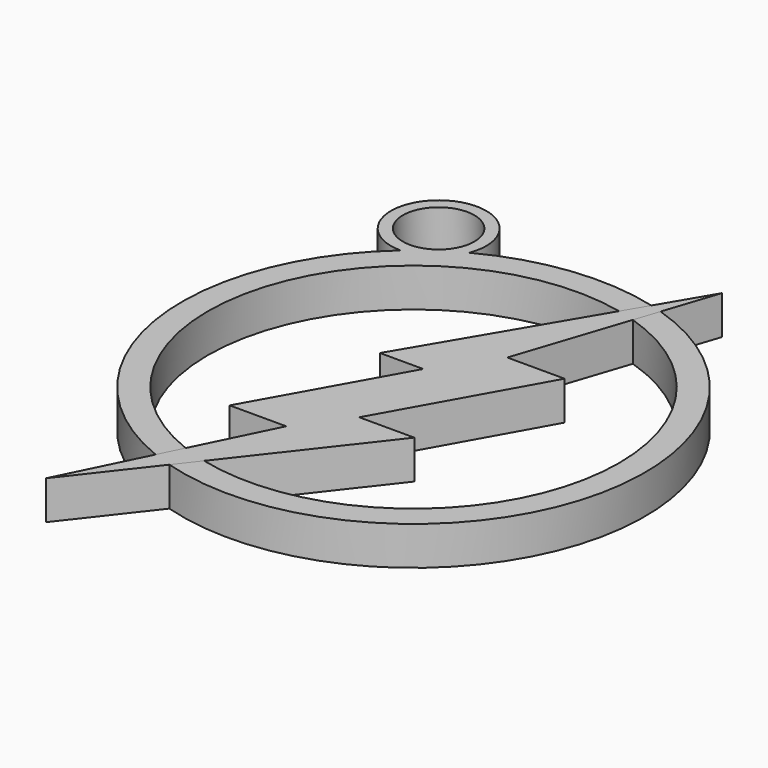
from build123d import *

# Parameters (mm, degrees)
F1_DEPTH = 6.35
F3_DEPTH = 6.35
F4_R     = 7.8194869238
F4_R_2   = 5.8680689484
F5_DEPTH = 6.35


with BuildPart() as f1:
    # F0 (on Top) → F1 (new body)
    with BuildSketch(Plane.XY):
        Polygon((10.2044390514, 20.2409497), (20.5251984298, 51.3899475336), (-3.3272264991, 11.0243037343), (3.7826313637, 11.0243037343), (-9.2903310433, -12.3694203794), (0, -12.3694203794), (-15.0240883231, -42.8730025887), (14.7914448753, -4.5715132728), (5.745598625, -4.5715132728), (19.6113856238, 20.2409497), align=None)
    extrude(amount=F1_DEPTH)


with BuildPart() as f3:
    # F2 (on face) → F3 (new body)
    with BuildSketch(Plane.XY.offset(6.35)):
        with BuildLine():
            ThreePointArc((-6.2910568685, -25.142226705), (-26.3355362631, 16.1610780131), (13.3489113778, 39.2454612683))
            Line((13.3489113778, 39.2454612683), (15.6022474373, 43.0587993675))
            ThreePointArc((15.6022474373, 43.0587993675), (-30.1282761074, 18.2224985015), (-8.1703070611, -28.9576903466))
            Line((-8.1703070611, -28.9576903466), (-6.2910568685, -25.142226705))
        make_face()
    extrude(amount=-F3_DEPTH)

    # F4 (on face) → F5 (join)
    with BuildSketch(Plane.XY.offset(6.35)):
        with Locations((-19.0615635365, 42.7367538214)):
            Circle(F4_R)
        with Locations((-19.0615635365, 42.7367538214)):
            Circle(F4_R_2, mode=Mode.SUBTRACT)
    extrude(amount=-F5_DEPTH)


with BuildPart() as f3b:
    # F2 (on face) → F3, piece 2 (new body)
    with BuildSketch(Plane.XY.offset(6.35)):
        with BuildLine():
            ThreePointArc((16.2408188754, 38.4592973202), (33.2131829481, 26.2118953895), (39.7023464178, 6.3133840449))
            ThreePointArc((39.7023464178, 6.3133840449), (26.7251834492, -20.2880192706), (-2.2275902486, -26.4344257227))
            Line((-2.2275902486, -26.4344257227), (-5.0447458233, -30.0533868002))
            ThreePointArc((-5.0447458233, -30.0533868002), (28.5956235275, -24.1914535774), (43.9413588571, 6.3133840449))
            ThreePointArc((43.9413588571, 6.3133840449), (36.6498565452, 28.693610287), (17.57413441, 42.4833658191))
            Line((17.57413441, 42.4833658191), (16.2408188754, 38.4592973202))
        make_face()
    extrude(amount=-F3_DEPTH)


solid = Compound([f1.part, f3.part, f3b.part])
